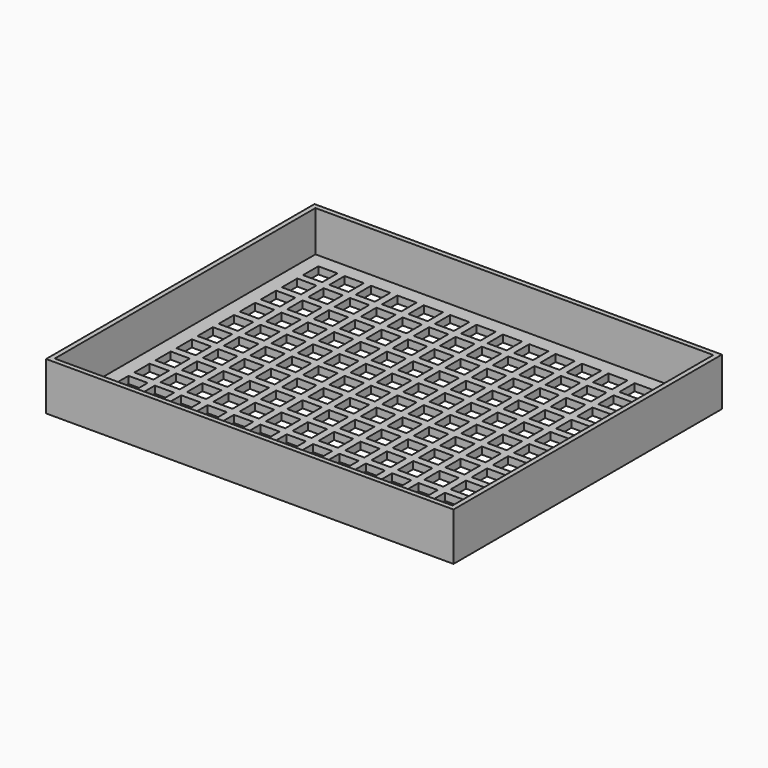
from build123d import *

# Parameters (mm, degrees)
F0_W     = 170
F0_H     = 140
F1_DEPTH = 20
F3_DEPTH = 17
F4_W     = 8
F4_H     = 8
F5_DEPTH = 170
F7_DEPTH = 3


with BuildPart() as f1:
    # F0 (on Top) → F1 (new body)
    with BuildSketch(Plane.XY):
        Rectangle(F0_W, F0_H)
    extrude(amount=F1_DEPTH)

    # F2 (on face) → F3 (cut)
    with BuildSketch(Plane.XY.offset(20)):
        Polygon((77, 68), (-77, 68), (-83, 68), (-83, 62), (-83, -62), (-83, -68), (-77, -68), (77, -68), (83, -68), (83, -62), (83, 62), (83, 68), align=None)
    extrude(amount=-F3_DEPTH, mode=Mode.SUBTRACT)

    # F4 (on face) → F5 (cut)
    with BuildSketch(Plane.XY.offset(3)):
        with Locations((-73, 58)):
            Rectangle(F4_W, F4_H)
        with Locations((-73, 47)):
            Rectangle(F4_W, F4_H)
        with Locations((-73, 36)):
            Rectangle(F4_W, F4_H)
        with Locations((-73, 25)):
            Rectangle(F4_W, F4_H)
        with Locations((-73, 14)):
            Rectangle(F4_W, F4_H)
        with Locations((-73, 3)):
            Rectangle(F4_W, F4_H)
        with Locations((-73, -8)):
            Rectangle(F4_W, F4_H)
        with Locations((-73, -19)):
            Rectangle(F4_W, F4_H)
        with Locations((-73, -30)):
            Rectangle(F4_W, F4_H)
        with Locations((-73, -41)):
            Rectangle(F4_W, F4_H)
        with Locations((-73, -52)):
            Rectangle(F4_W, F4_H)
        with Locations((-62, 58)):
            Rectangle(F4_W, F4_H)
        with Locations((-62, 47)):
            Rectangle(F4_W, F4_H)
        with Locations((-62, 36)):
            Rectangle(F4_W, F4_H)
        with Locations((-62, 25)):
            Rectangle(F4_W, F4_H)
        with Locations((-62, 14)):
            Rectangle(F4_W, F4_H)
        with Locations((-62, 3)):
            Rectangle(F4_W, F4_H)
        with Locations((-62, -8)):
            Rectangle(F4_W, F4_H)
        with Locations((-62, -19)):
            Rectangle(F4_W, F4_H)
        with Locations((-62, -30)):
            Rectangle(F4_W, F4_H)
        with Locations((-62, -41)):
            Rectangle(F4_W, F4_H)
        with Locations((-62, -52)):
            Rectangle(F4_W, F4_H)
        with Locations((-51, 58)):
            Rectangle(F4_W, F4_H)
        with Locations((-51, 47)):
            Rectangle(F4_W, F4_H)
        with Locations((-51, 36)):
            Rectangle(F4_W, F4_H)
        with Locations((-51, 25)):
            Rectangle(F4_W, F4_H)
        with Locations((-51, 14)):
            Rectangle(F4_W, F4_H)
        with Locations((-51, 3)):
            Rectangle(F4_W, F4_H)
        with Locations((-51, -8)):
            Rectangle(F4_W, F4_H)
        with Locations((-51, -19)):
            Rectangle(F4_W, F4_H)
        with Locations((-51, -30)):
            Rectangle(F4_W, F4_H)
        with Locations((-51, -41)):
            Rectangle(F4_W, F4_H)
        with Locations((-51, -52)):
            Rectangle(F4_W, F4_H)
        with Locations((-40, 58)):
            Rectangle(F4_W, F4_H)
        with Locations((-40, 47)):
            Rectangle(F4_W, F4_H)
        with Locations((-40, 36)):
            Rectangle(F4_W, F4_H)
        with Locations((-40, 25)):
            Rectangle(F4_W, F4_H)
        with Locations((-40, 14)):
            Rectangle(F4_W, F4_H)
        with Locations((-40, 3)):
            Rectangle(F4_W, F4_H)
        with Locations((-40, -8)):
            Rectangle(F4_W, F4_H)
        with Locations((-40, -19)):
            Rectangle(F4_W, F4_H)
        with Locations((-40, -30)):
            Rectangle(F4_W, F4_H)
        with Locations((-40, -41)):
            Rectangle(F4_W, F4_H)
        with Locations((-40, -52)):
            Rectangle(F4_W, F4_H)
        with Locations((-29, 58)):
            Rectangle(F4_W, F4_H)
        with Locations((-29, 47)):
            Rectangle(F4_W, F4_H)
        with Locations((-29, 36)):
            Rectangle(F4_W, F4_H)
        with Locations((-29, 25)):
            Rectangle(F4_W, F4_H)
        with Locations((-29, 14)):
            Rectangle(F4_W, F4_H)
        with Locations((-29, 3)):
            Rectangle(F4_W, F4_H)
        with Locations((-29, -8)):
            Rectangle(F4_W, F4_H)
        with Locations((-29, -19)):
            Rectangle(F4_W, F4_H)
        with Locations((-29, -30)):
            Rectangle(F4_W, F4_H)
        with Locations((-29, -41)):
            Rectangle(F4_W, F4_H)
        with Locations((-29, -52)):
            Rectangle(F4_W, F4_H)
        with Locations((-18, 58)):
            Rectangle(F4_W, F4_H)
        with Locations((-18, 47)):
            Rectangle(F4_W, F4_H)
        with Locations((-18, 36)):
            Rectangle(F4_W, F4_H)
        with Locations((-18, 25)):
            Rectangle(F4_W, F4_H)
        with Locations((-18, 14)):
            Rectangle(F4_W, F4_H)
        with Locations((-18, 3)):
            Rectangle(F4_W, F4_H)
        with Locations((-18, -8)):
            Rectangle(F4_W, F4_H)
        with Locations((-18, -19)):
            Rectangle(F4_W, F4_H)
        with Locations((-18, -30)):
            Rectangle(F4_W, F4_H)
        with Locations((-18, -41)):
            Rectangle(F4_W, F4_H)
        with Locations((-18, -52)):
            Rectangle(F4_W, F4_H)
        with Locations((-7, 58)):
            Rectangle(F4_W, F4_H)
        with Locations((-7, 47)):
            Rectangle(F4_W, F4_H)
        with Locations((-7, 36)):
            Rectangle(F4_W, F4_H)
        with Locations((-7, 25)):
            Rectangle(F4_W, F4_H)
        with Locations((-7, 14)):
            Rectangle(F4_W, F4_H)
        with Locations((-7, 3)):
            Rectangle(F4_W, F4_H)
        with Locations((-7, -8)):
            Rectangle(F4_W, F4_H)
        with Locations((-7, -19)):
            Rectangle(F4_W, F4_H)
        with Locations((-7, -30)):
            Rectangle(F4_W, F4_H)
        with Locations((-7, -41)):
            Rectangle(F4_W, F4_H)
        with Locations((-7, -52)):
            Rectangle(F4_W, F4_H)
        with Locations((4, 58)):
            Rectangle(F4_W, F4_H)
        with Locations((4, 47)):
            Rectangle(F4_W, F4_H)
        with Locations((4, 36)):
            Rectangle(F4_W, F4_H)
        with Locations((4, 25)):
            Rectangle(F4_W, F4_H)
        with Locations((4, 14)):
            Rectangle(F4_W, F4_H)
        with Locations((4, 3)):
            Rectangle(F4_W, F4_H)
        with Locations((4, -8)):
            Rectangle(F4_W, F4_H)
        with Locations((4, -19)):
            Rectangle(F4_W, F4_H)
        with Locations((4, -30)):
            Rectangle(F4_W, F4_H)
        with Locations((4, -41)):
            Rectangle(F4_W, F4_H)
        with Locations((4, -52)):
            Rectangle(F4_W, F4_H)
        with Locations((15, 58)):
            Rectangle(F4_W, F4_H)
        with Locations((15, 47)):
            Rectangle(F4_W, F4_H)
        with Locations((15, 36)):
            Rectangle(F4_W, F4_H)
        with Locations((15, 25)):
            Rectangle(F4_W, F4_H)
        with Locations((15, 14)):
            Rectangle(F4_W, F4_H)
        with Locations((15, 3)):
            Rectangle(F4_W, F4_H)
        with Locations((15, -8)):
            Rectangle(F4_W, F4_H)
        with Locations((15, -19)):
            Rectangle(F4_W, F4_H)
        with Locations((15, -30)):
            Rectangle(F4_W, F4_H)
        with Locations((15, -41)):
            Rectangle(F4_W, F4_H)
        with Locations((15, -52)):
            Rectangle(F4_W, F4_H)
        with Locations((26, 58)):
            Rectangle(F4_W, F4_H)
        with Locations((26, 47)):
            Rectangle(F4_W, F4_H)
        with Locations((26, 36)):
            Rectangle(F4_W, F4_H)
        with Locations((26, 25)):
            Rectangle(F4_W, F4_H)
        with Locations((26, 14)):
            Rectangle(F4_W, F4_H)
        with Locations((26, 3)):
            Rectangle(F4_W, F4_H)
        with Locations((26, -8)):
            Rectangle(F4_W, F4_H)
        with Locations((26, -19)):
            Rectangle(F4_W, F4_H)
        with Locations((26, -30)):
            Rectangle(F4_W, F4_H)
        with Locations((26, -41)):
            Rectangle(F4_W, F4_H)
        with Locations((26, -52)):
            Rectangle(F4_W, F4_H)
        with Locations((37, 58)):
            Rectangle(F4_W, F4_H)
        with Locations((37, 47)):
            Rectangle(F4_W, F4_H)
        with Locations((37, 36)):
            Rectangle(F4_W, F4_H)
        with Locations((37, 25)):
            Rectangle(F4_W, F4_H)
        with Locations((37, 14)):
            Rectangle(F4_W, F4_H)
        with Locations((37, 3)):
            Rectangle(F4_W, F4_H)
        with Locations((37, -8)):
            Rectangle(F4_W, F4_H)
        with Locations((37, -19)):
            Rectangle(F4_W, F4_H)
        with Locations((37, -30)):
            Rectangle(F4_W, F4_H)
        with Locations((37, -41)):
            Rectangle(F4_W, F4_H)
        with Locations((37, -52)):
            Rectangle(F4_W, F4_H)
        with Locations((48, 58)):
            Rectangle(F4_W, F4_H)
        with Locations((48, 47)):
            Rectangle(F4_W, F4_H)
        with Locations((48, 36)):
            Rectangle(F4_W, F4_H)
        with Locations((48, 25)):
            Rectangle(F4_W, F4_H)
        with Locations((48, 14)):
            Rectangle(F4_W, F4_H)
        with Locations((48, 3)):
            Rectangle(F4_W, F4_H)
        with Locations((48, -8)):
            Rectangle(F4_W, F4_H)
        with Locations((48, -19)):
            Rectangle(F4_W, F4_H)
        with Locations((48, -30)):
            Rectangle(F4_W, F4_H)
        with Locations((48, -41)):
            Rectangle(F4_W, F4_H)
        with Locations((48, -52)):
            Rectangle(F4_W, F4_H)
        with Locations((59, 58)):
            Rectangle(F4_W, F4_H)
        with Locations((59, 47)):
            Rectangle(F4_W, F4_H)
        with Locations((59, 36)):
            Rectangle(F4_W, F4_H)
        with Locations((59, 25)):
            Rectangle(F4_W, F4_H)
        with Locations((59, 14)):
            Rectangle(F4_W, F4_H)
        with Locations((59, 3)):
            Rectangle(F4_W, F4_H)
        with Locations((59, -8)):
            Rectangle(F4_W, F4_H)
        with Locations((59, -19)):
            Rectangle(F4_W, F4_H)
        with Locations((59, -30)):
            Rectangle(F4_W, F4_H)
        with Locations((59, -41)):
            Rectangle(F4_W, F4_H)
        with Locations((59, -52)):
            Rectangle(F4_W, F4_H)
        with Locations((70, 58)):
            Rectangle(F4_W, F4_H)
        with Locations((70, 47)):
            Rectangle(F4_W, F4_H)
        with Locations((70, 36)):
            Rectangle(F4_W, F4_H)
        with Locations((70, 25)):
            Rectangle(F4_W, F4_H)
        with Locations((70, 14)):
            Rectangle(F4_W, F4_H)
        with Locations((70, 3)):
            Rectangle(F4_W, F4_H)
        with Locations((70, -8)):
            Rectangle(F4_W, F4_H)
        with Locations((70, -19)):
            Rectangle(F4_W, F4_H)
        with Locations((70, -30)):
            Rectangle(F4_W, F4_H)
        with Locations((70, -41)):
            Rectangle(F4_W, F4_H)
        with Locations((70, -52)):
            Rectangle(F4_W, F4_H)
    extrude(amount=-F5_DEPTH, mode=Mode.SUBTRACT)

    # F4 (on face) → F7 (cut)
    with BuildSketch(Plane.XY.offset(3)):
        with Locations((-73, 58)):
            Rectangle(F4_W, F4_H)
        with Locations((-73, 47)):
            Rectangle(F4_W, F4_H)
        with Locations((-73, 36)):
            Rectangle(F4_W, F4_H)
        with Locations((-73, 25)):
            Rectangle(F4_W, F4_H)
        with Locations((-73, 14)):
            Rectangle(F4_W, F4_H)
        with Locations((-73, 3)):
            Rectangle(F4_W, F4_H)
        with Locations((-73, -8)):
            Rectangle(F4_W, F4_H)
        with Locations((-73, -19)):
            Rectangle(F4_W, F4_H)
        with Locations((-73, -30)):
            Rectangle(F4_W, F4_H)
        with Locations((-73, -41)):
            Rectangle(F4_W, F4_H)
        with Locations((-73, -52)):
            Rectangle(F4_W, F4_H)
        with Locations((-62, 58)):
            Rectangle(F4_W, F4_H)
        with Locations((-62, 47)):
            Rectangle(F4_W, F4_H)
        with Locations((-62, 36)):
            Rectangle(F4_W, F4_H)
        with Locations((-62, 25)):
            Rectangle(F4_W, F4_H)
        with Locations((-62, 14)):
            Rectangle(F4_W, F4_H)
        with Locations((-62, 3)):
            Rectangle(F4_W, F4_H)
        with Locations((-62, -8)):
            Rectangle(F4_W, F4_H)
        with Locations((-62, -19)):
            Rectangle(F4_W, F4_H)
        with Locations((-62, -30)):
            Rectangle(F4_W, F4_H)
        with Locations((-62, -41)):
            Rectangle(F4_W, F4_H)
        with Locations((-62, -52)):
            Rectangle(F4_W, F4_H)
        with Locations((-51, 58)):
            Rectangle(F4_W, F4_H)
        with Locations((-51, 47)):
            Rectangle(F4_W, F4_H)
        with Locations((-51, 36)):
            Rectangle(F4_W, F4_H)
        with Locations((-51, 25)):
            Rectangle(F4_W, F4_H)
        with Locations((-51, 14)):
            Rectangle(F4_W, F4_H)
        with Locations((-51, 3)):
            Rectangle(F4_W, F4_H)
        with Locations((-51, -8)):
            Rectangle(F4_W, F4_H)
        with Locations((-51, -19)):
            Rectangle(F4_W, F4_H)
        with Locations((-51, -30)):
            Rectangle(F4_W, F4_H)
        with Locations((-51, -41)):
            Rectangle(F4_W, F4_H)
        with Locations((-51, -52)):
            Rectangle(F4_W, F4_H)
        with Locations((-40, 58)):
            Rectangle(F4_W, F4_H)
        with Locations((-40, 47)):
            Rectangle(F4_W, F4_H)
        with Locations((-40, 36)):
            Rectangle(F4_W, F4_H)
        with Locations((-40, 25)):
            Rectangle(F4_W, F4_H)
        with Locations((-40, 14)):
            Rectangle(F4_W, F4_H)
        with Locations((-40, 3)):
            Rectangle(F4_W, F4_H)
        with Locations((-40, -8)):
            Rectangle(F4_W, F4_H)
        with Locations((-40, -19)):
            Rectangle(F4_W, F4_H)
        with Locations((-40, -30)):
            Rectangle(F4_W, F4_H)
        with Locations((-40, -41)):
            Rectangle(F4_W, F4_H)
        with Locations((-40, -52)):
            Rectangle(F4_W, F4_H)
        with Locations((-29, 58)):
            Rectangle(F4_W, F4_H)
        with Locations((-29, 47)):
            Rectangle(F4_W, F4_H)
        with Locations((-29, 36)):
            Rectangle(F4_W, F4_H)
        with Locations((-29, 25)):
            Rectangle(F4_W, F4_H)
        with Locations((-29, 14)):
            Rectangle(F4_W, F4_H)
        with Locations((-29, 3)):
            Rectangle(F4_W, F4_H)
        with Locations((-29, -8)):
            Rectangle(F4_W, F4_H)
        with Locations((-29, -19)):
            Rectangle(F4_W, F4_H)
        with Locations((-29, -30)):
            Rectangle(F4_W, F4_H)
        with Locations((-29, -41)):
            Rectangle(F4_W, F4_H)
        with Locations((-29, -52)):
            Rectangle(F4_W, F4_H)
        with Locations((-18, 58)):
            Rectangle(F4_W, F4_H)
        with Locations((-18, 47)):
            Rectangle(F4_W, F4_H)
        with Locations((-18, 36)):
            Rectangle(F4_W, F4_H)
        with Locations((-18, 25)):
            Rectangle(F4_W, F4_H)
        with Locations((-18, 14)):
            Rectangle(F4_W, F4_H)
        with Locations((-18, 3)):
            Rectangle(F4_W, F4_H)
        with Locations((-18, -8)):
            Rectangle(F4_W, F4_H)
        with Locations((-18, -19)):
            Rectangle(F4_W, F4_H)
        with Locations((-18, -30)):
            Rectangle(F4_W, F4_H)
        with Locations((-18, -41)):
            Rectangle(F4_W, F4_H)
        with Locations((-18, -52)):
            Rectangle(F4_W, F4_H)
        with Locations((-7, 58)):
            Rectangle(F4_W, F4_H)
        with Locations((-7, 47)):
            Rectangle(F4_W, F4_H)
        with Locations((-7, 36)):
            Rectangle(F4_W, F4_H)
        with Locations((-7, 25)):
            Rectangle(F4_W, F4_H)
        with Locations((-7, 14)):
            Rectangle(F4_W, F4_H)
        with Locations((-7, 3)):
            Rectangle(F4_W, F4_H)
        with Locations((-7, -8)):
            Rectangle(F4_W, F4_H)
        with Locations((-7, -19)):
            Rectangle(F4_W, F4_H)
        with Locations((-7, -30)):
            Rectangle(F4_W, F4_H)
        with Locations((-7, -41)):
            Rectangle(F4_W, F4_H)
        with Locations((-7, -52)):
            Rectangle(F4_W, F4_H)
        with Locations((4, 58)):
            Rectangle(F4_W, F4_H)
        with Locations((4, 47)):
            Rectangle(F4_W, F4_H)
        with Locations((4, 36)):
            Rectangle(F4_W, F4_H)
        with Locations((4, 25)):
            Rectangle(F4_W, F4_H)
        with Locations((4, 14)):
            Rectangle(F4_W, F4_H)
        with Locations((4, 3)):
            Rectangle(F4_W, F4_H)
        with Locations((4, -8)):
            Rectangle(F4_W, F4_H)
        with Locations((4, -19)):
            Rectangle(F4_W, F4_H)
        with Locations((4, -30)):
            Rectangle(F4_W, F4_H)
        with Locations((4, -41)):
            Rectangle(F4_W, F4_H)
        with Locations((4, -52)):
            Rectangle(F4_W, F4_H)
        with Locations((15, 58)):
            Rectangle(F4_W, F4_H)
        with Locations((15, 47)):
            Rectangle(F4_W, F4_H)
        with Locations((15, 36)):
            Rectangle(F4_W, F4_H)
        with Locations((15, 25)):
            Rectangle(F4_W, F4_H)
        with Locations((15, 14)):
            Rectangle(F4_W, F4_H)
        with Locations((15, 3)):
            Rectangle(F4_W, F4_H)
        with Locations((15, -8)):
            Rectangle(F4_W, F4_H)
        with Locations((15, -19)):
            Rectangle(F4_W, F4_H)
        with Locations((15, -30)):
            Rectangle(F4_W, F4_H)
        with Locations((15, -41)):
            Rectangle(F4_W, F4_H)
        with Locations((15, -52)):
            Rectangle(F4_W, F4_H)
        with Locations((26, 58)):
            Rectangle(F4_W, F4_H)
        with Locations((26, 47)):
            Rectangle(F4_W, F4_H)
        with Locations((26, 36)):
            Rectangle(F4_W, F4_H)
        with Locations((26, 25)):
            Rectangle(F4_W, F4_H)
        with Locations((26, 14)):
            Rectangle(F4_W, F4_H)
        with Locations((26, 3)):
            Rectangle(F4_W, F4_H)
        with Locations((26, -8)):
            Rectangle(F4_W, F4_H)
        with Locations((26, -19)):
            Rectangle(F4_W, F4_H)
        with Locations((26, -30)):
            Rectangle(F4_W, F4_H)
        with Locations((26, -41)):
            Rectangle(F4_W, F4_H)
        with Locations((26, -52)):
            Rectangle(F4_W, F4_H)
        with Locations((37, 58)):
            Rectangle(F4_W, F4_H)
        with Locations((37, 47)):
            Rectangle(F4_W, F4_H)
        with Locations((37, 36)):
            Rectangle(F4_W, F4_H)
        with Locations((37, 25)):
            Rectangle(F4_W, F4_H)
        with Locations((37, 14)):
            Rectangle(F4_W, F4_H)
        with Locations((37, 3)):
            Rectangle(F4_W, F4_H)
        with Locations((37, -8)):
            Rectangle(F4_W, F4_H)
        with Locations((37, -19)):
            Rectangle(F4_W, F4_H)
        with Locations((37, -30)):
            Rectangle(F4_W, F4_H)
        with Locations((37, -41)):
            Rectangle(F4_W, F4_H)
        with Locations((37, -52)):
            Rectangle(F4_W, F4_H)
        with Locations((48, 58)):
            Rectangle(F4_W, F4_H)
        with Locations((48, 47)):
            Rectangle(F4_W, F4_H)
        with Locations((48, 36)):
            Rectangle(F4_W, F4_H)
        with Locations((48, 25)):
            Rectangle(F4_W, F4_H)
        with Locations((48, 14)):
            Rectangle(F4_W, F4_H)
        with Locations((48, 3)):
            Rectangle(F4_W, F4_H)
        with Locations((48, -8)):
            Rectangle(F4_W, F4_H)
        with Locations((48, -19)):
            Rectangle(F4_W, F4_H)
        with Locations((48, -30)):
            Rectangle(F4_W, F4_H)
        with Locations((48, -41)):
            Rectangle(F4_W, F4_H)
        with Locations((48, -52)):
            Rectangle(F4_W, F4_H)
        with Locations((59, 58)):
            Rectangle(F4_W, F4_H)
        with Locations((59, 47)):
            Rectangle(F4_W, F4_H)
        with Locations((59, 36)):
            Rectangle(F4_W, F4_H)
        with Locations((59, 25)):
            Rectangle(F4_W, F4_H)
        with Locations((59, 14)):
            Rectangle(F4_W, F4_H)
        with Locations((59, 3)):
            Rectangle(F4_W, F4_H)
        with Locations((59, -8)):
            Rectangle(F4_W, F4_H)
        with Locations((59, -19)):
            Rectangle(F4_W, F4_H)
        with Locations((59, -30)):
            Rectangle(F4_W, F4_H)
        with Locations((59, -41)):
            Rectangle(F4_W, F4_H)
        with Locations((59, -52)):
            Rectangle(F4_W, F4_H)
        with Locations((70, 58)):
            Rectangle(F4_W, F4_H)
        with Locations((70, 47)):
            Rectangle(F4_W, F4_H)
        with Locations((70, 36)):
            Rectangle(F4_W, F4_H)
        with Locations((70, 25)):
            Rectangle(F4_W, F4_H)
        with Locations((70, 14)):
            Rectangle(F4_W, F4_H)
        with Locations((70, 3)):
            Rectangle(F4_W, F4_H)
        with Locations((70, -8)):
            Rectangle(F4_W, F4_H)
        with Locations((70, -19)):
            Rectangle(F4_W, F4_H)
        with Locations((70, -30)):
            Rectangle(F4_W, F4_H)
        with Locations((70, -41)):
            Rectangle(F4_W, F4_H)
        with Locations((70, -52)):
            Rectangle(F4_W, F4_H)
    extrude(amount=-F7_DEPTH, mode=Mode.SUBTRACT)


solid = f1.part
